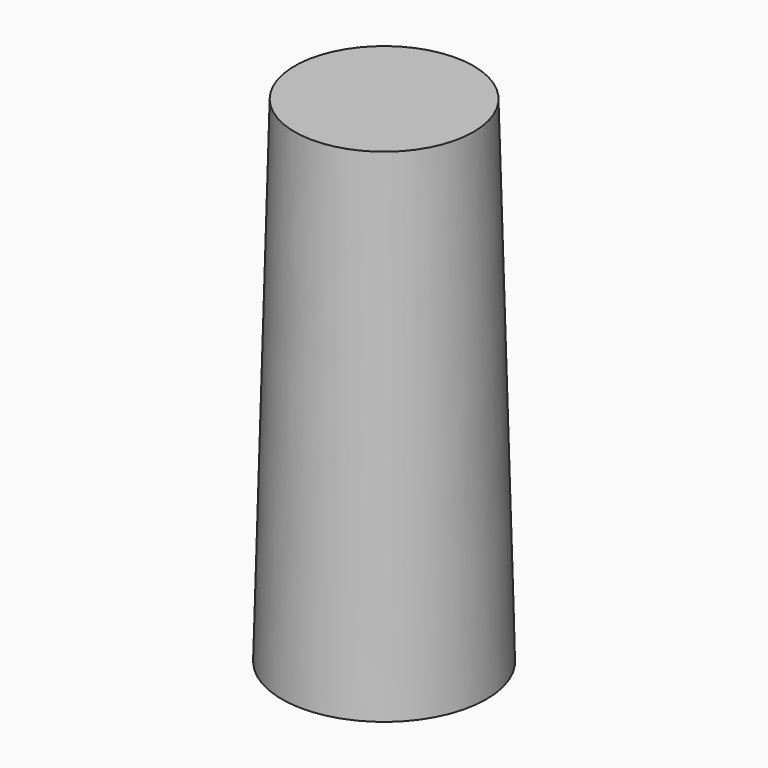
from build123d import *

# Parameters (mm, degrees)
F0_R     = 7.875
F0_R_2   = 6.125
F1_DEPTH = 38.1
F1_TAPER = 1.5
F2_DEPTH = 31.75


with BuildPart() as f1:
    # F0 (on Top) → F1 (new body)
    with BuildSketch(Plane.XY):
        Circle(F0_R)
        Circle(F0_R_2, mode=Mode.SUBTRACT)
        Circle(F0_R_2)
    extrude(amount=F1_DEPTH, taper=F1_TAPER)

    # F0 (on Top) → F2 (cut)
    with BuildSketch(Plane.XY):
        Circle(F0_R_2)
    extrude(amount=F2_DEPTH, mode=Mode.SUBTRACT)


solid = f1.part
